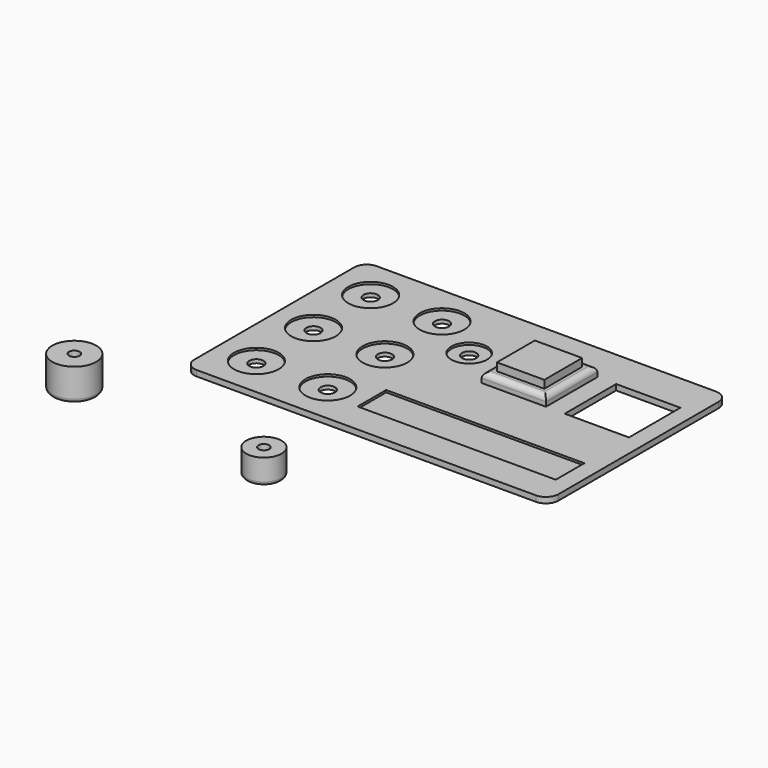
from build123d import *

# Parameters (mm, degrees)
F0_R      = 6.25
F0_W      = 55.5
F0_H      = 10
F0_R_2    = 5
F0_W_2    = 18
F0_H_2    = 18
F1_DEPTH  = 0.6
F0_R_3    = 2
F2_DEPTH  = 1
F0_W_3    = 13.25
F0_H_3    = 13.25
F3_DEPTH  = 3.3
F4_DEPTH  = 5.5
F5_R      = 1.5
F6_R      = 6.165
F6_R_2    = 1.5
F7_DEPTH  = 9
F8_DEPTH  = 2
F9_R      = 1
F6_R_3    = 4.95
F10_DEPTH = 7
F11_DEPTH = 2
F12_R     = 1


with BuildPart() as f1:
    # F0 (on Top) → F1 (new body)
    with BuildSketch(Plane.XY):
        with BuildLine():
            Line((47.5, 31.5), (-47.5, 31.5))
            ThreePointArc((-47.5, 31.5), (-49.974874, 30.474874), (-51, 28))
            Line((-51, 28), (-51, -28))
            ThreePointArc((-51, -28), (-49.974874, -30.474874), (-47.5, -31.5))
            Line((-47.5, -31.5), (47.5, -31.5))
            ThreePointArc((47.5, -31.5), (49.974874, -30.474874), (51, -28))
            Line((51, -28), (51, 28))
            ThreePointArc((51, 28), (49.974874, 30.474874), (47.5, 31.5))
        make_face()
        with Locations((-40, -20)):
            Circle(F0_R, mode=Mode.SUBTRACT)
        with Locations((-20, -20)):
            Circle(F0_R, mode=Mode.SUBTRACT)
        with Locations((18.5, -18)):
            Rectangle(F0_W, F0_H, mode=Mode.SUBTRACT)
        with Locations((-40, 0)):
            Circle(F0_R, mode=Mode.SUBTRACT)
        with Locations((-20, 0)):
            Circle(F0_R, mode=Mode.SUBTRACT)
        with Locations((-6, 12)):
            Circle(F0_R_2, mode=Mode.SUBTRACT)
        with Locations((-40, 20)):
            Circle(F0_R, mode=Mode.SUBTRACT)
        with Locations((-20, 20)):
            Circle(F0_R, mode=Mode.SUBTRACT)
        with Locations((14, 11.625)):
            Rectangle(F0_W_2, F0_H_2, mode=Mode.SUBTRACT)
        with Locations((37.25, 11.625)):
            Rectangle(F0_W_2, F0_H_2, mode=Mode.SUBTRACT)
    extrude(amount=F1_DEPTH)

    # F0 (on Top) → F2 (join)
    with BuildSketch(Plane.XY):
        with BuildLine():
            Line((47.5, 31.5), (-47.5, 31.5))
            ThreePointArc((-47.5, 31.5), (-49.974874, 30.474874), (-51, 28))
            Line((-51, 28), (-51, -28))
            ThreePointArc((-51, -28), (-49.974874, -30.474874), (-47.5, -31.5))
            Line((-47.5, -31.5), (47.5, -31.5))
            ThreePointArc((47.5, -31.5), (49.974874, -30.474874), (51, -28))
            Line((51, -28), (51, 28))
            ThreePointArc((51, 28), (49.974874, 30.474874), (47.5, 31.5))
        make_face()
        with Locations((-40, -20)):
            Circle(F0_R, mode=Mode.SUBTRACT)
        with Locations((-20, -20)):
            Circle(F0_R, mode=Mode.SUBTRACT)
        with Locations((18.5, -18)):
            Rectangle(F0_W, F0_H, mode=Mode.SUBTRACT)
        with Locations((-40, 0)):
            Circle(F0_R, mode=Mode.SUBTRACT)
        with Locations((-20, 0)):
            Circle(F0_R, mode=Mode.SUBTRACT)
        with Locations((-6, 12)):
            Circle(F0_R_2, mode=Mode.SUBTRACT)
        with Locations((-40, 20)):
            Circle(F0_R, mode=Mode.SUBTRACT)
        with Locations((-20, 20)):
            Circle(F0_R, mode=Mode.SUBTRACT)
        with Locations((14, 11.625)):
            Rectangle(F0_W_2, F0_H_2, mode=Mode.SUBTRACT)
        with Locations((37.25, 11.625)):
            Rectangle(F0_W_2, F0_H_2, mode=Mode.SUBTRACT)
        with Locations((-40, -20)):
            Circle(F0_R)
        with Locations((-40, -20)):
            Circle(F0_R_3, mode=Mode.SUBTRACT)
        with Locations((-40, 0)):
            Circle(F0_R)
        with Locations((-40, 0)):
            Circle(F0_R_3, mode=Mode.SUBTRACT)
        with Locations((-40, 20)):
            Circle(F0_R)
        with Locations((-40, 20)):
            Circle(F0_R_3, mode=Mode.SUBTRACT)
        with Locations((-20, 20)):
            Circle(F0_R)
        with Locations((-20, 20)):
            Circle(F0_R_3, mode=Mode.SUBTRACT)
        with Locations((-20, 0)):
            Circle(F0_R)
        with Locations((-20, 0)):
            Circle(F0_R_3, mode=Mode.SUBTRACT)
        with Locations((-20, -20)):
            Circle(F0_R)
        with Locations((-20, -20)):
            Circle(F0_R_3, mode=Mode.SUBTRACT)
        with Locations((-6, 12)):
            Circle(F0_R_2)
        with Locations((-6, 12)):
            Circle(F0_R_3, mode=Mode.SUBTRACT)
        with Locations((18.5, -18)):
            Rectangle(F0_W, F0_H)
    extrude(amount=-F2_DEPTH)


with BuildPart() as f3:
    # F0 (on Top) → F3 (new body)
    with BuildSketch(Plane.XY):
        with Locations((14, 11.625)):
            Rectangle(F0_W_3, F0_H_3)
        with Locations((14, 11.625)):
            Rectangle(F0_W_2, F0_H_2)
        with Locations((14, 11.625)):
            Rectangle(F0_W_3, F0_H_3, mode=Mode.SUBTRACT)
    extrude(amount=F3_DEPTH)

    # F0 (on Top) → F4 (join)
    with BuildSketch(Plane.XY):
        with Locations((14, 11.625)):
            Rectangle(F0_W_3, F0_H_3)
    extrude(amount=F4_DEPTH)

    # F5
    f5_edges = [f3.edges().sort_by_distance(p)[0] for p in [
        (14, 2.625, 3.3),
        (23, 11.625, 3.3),
        (14, 20.625, 3.3),
        (5, 11.625, 3.3),
    ]]
    fillet(f5_edges, radius=F5_R)


with BuildPart() as f7:
    # F6 (on Top) → F7 (new body)
    with BuildSketch(Plane.XY):
        with Locations((-63.158177, -54.797348)):
            Circle(F6_R)
        with Locations((-63.158177, -54.797348)):
            Circle(F6_R_2, mode=Mode.SUBTRACT)
    extrude(amount=F7_DEPTH)

    # F6 (on Top) → F8 (join)
    with BuildSketch(Plane.XY):
        with Locations((-63.158177, -54.797348)):
            Circle(F6_R)
        with Locations((-63.158177, -54.797348)):
            Circle(F6_R_2, mode=Mode.SUBTRACT)
        with Locations((-63.158177, -54.797348)):
            Circle(F6_R_2)
    extrude(amount=F8_DEPTH)

    # F9
    f9_edges = [f7.edges().sort_by_distance(p)[0] for p in [
        (-69.323177, -54.797348, 0),
    ]]
    fillet(f9_edges, radius=F9_R)


with BuildPart() as f10:
    # F6 (on Top) → F10 (new body)
    with BuildSketch(Plane.XY):
        with Locations((-5.536227, -60.44656)):
            Circle(F6_R_3)
        with Locations((-5.536227, -60.44656)):
            Circle(F6_R_2, mode=Mode.SUBTRACT)
    extrude(amount=F10_DEPTH)

    # F6 (on Top) → F11 (join)
    with BuildSketch(Plane.XY):
        with Locations((-5.536227, -60.44656)):
            Circle(F6_R_3)
        with Locations((-5.536227, -60.44656)):
            Circle(F6_R_2, mode=Mode.SUBTRACT)
        with Locations((-5.536227, -60.44656)):
            Circle(F6_R_2)
    extrude(amount=F11_DEPTH)

    # F12
    f12_edges = [f10.edges().sort_by_distance(p)[0] for p in [
        (-10.486227, -60.44656, 0),
    ]]
    fillet(f12_edges, radius=F12_R)


solid = Compound([f1.part, f3.part, f7.part, f10.part])
